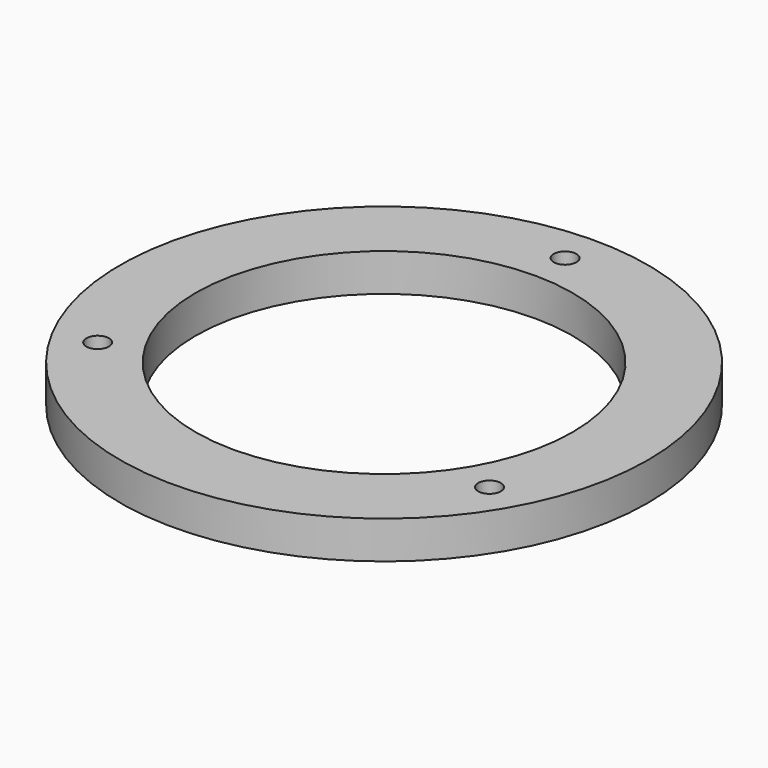
from build123d import *

# Parameters (mm, degrees)
CYLINDER004_R     = 25
CYLINDER004_DEPTH = 5
CYLINDER003_R     = 1.5
CYLINDER003_DEPTH = 5
ARRAY_COUNT       = 3
CYLINDER002_R     = 35
CYLINDER002_DEPTH = 5


with BuildPart() as cylinderboring:
    # Cylinder004 → Cylinder004 (new body)
    with BuildSketch(Plane.XY):
        Circle(CYLINDER004_R)
    extrude(amount=CYLINDER004_DEPTH)


with BuildPart() as fusion145:
    # Cylinder003 → Cylinder003 (new body)
    with BuildSketch(Plane(origin=(0, 30, 0), x_dir=(1, 0, 0), z_dir=(0, 0, 1))):
        Circle(CYLINDER003_R)
    extrude(amount=CYLINDER003_DEPTH)

    # Array: Fusion145 ×3 about axis
    array_axis = Axis((0, 0, 0), (0, 0, 1))


with BuildPart() as fusion145_1:
    add(fusion145.part)
    for i in range(1, ARRAY_COUNT):
        add(fusion145.part.rotate(array_axis, i * 360 / ARRAY_COUNT))

    # Fusion145: union CylinderBoring
    add(cylinderboring.part)


with BuildPart() as cut:
    # Cylinder002 → Cylinder002 (new body)
    with BuildSketch(Plane.XY):
        Circle(CYLINDER002_R)
    extrude(amount=CYLINDER002_DEPTH)

    # Cut: cut Fusion145
    add(fusion145_1.part, mode=Mode.SUBTRACT)


solid = cut.part
